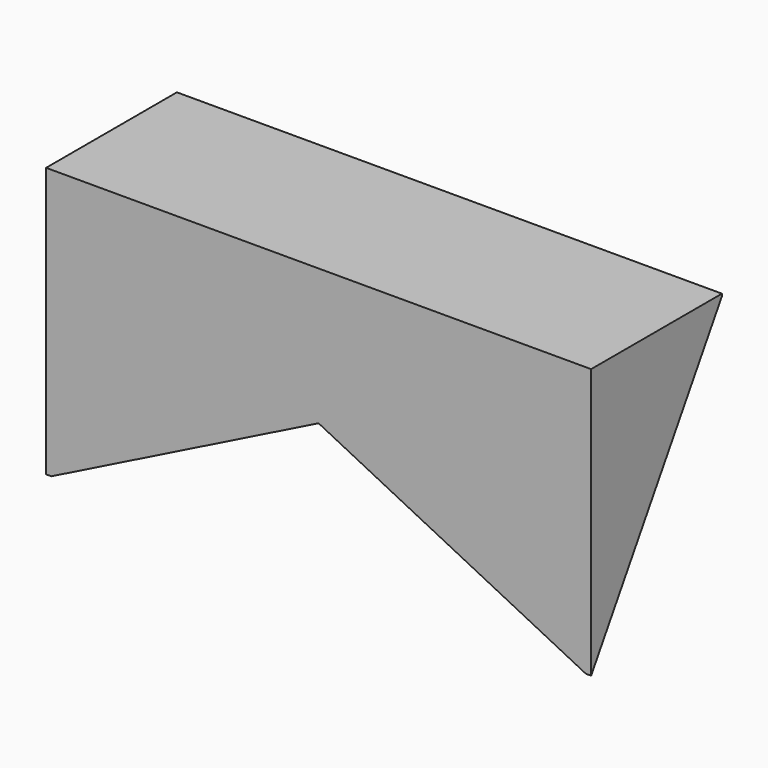
from build123d import *

# Parameters (mm, degrees)
F1_DEPTH      = 38.1
F3_DEPTH      = 98.552
F3_DEPTH_BACK = 78.232


with BuildPart() as f1:
    # F0 (on Front) → F1 (new body)
    with BuildSketch(Plane.XZ):
        Polygon((-1.4573782682, 27.211310178), (-64.9573782682, 27.211310178), (-64.9573782682, -36.288689822), (-1.4573782682, -4.538689822), align=None)
        Polygon((62.0426217318, 27.211310178), (-1.4573782682, 27.211310178), (-1.4573782682, -4.538689822), (62.0426217318, -36.288689822), align=None)
    extrude(amount=F1_DEPTH)

    # F2 (on Right) → F3 (cut, two sides)
    with BuildSketch(Plane.YZ) as f3_sk:
        Polygon((0, 26.6700014472), (-38.474753499, -36.288689822), (0, -36.288689822), align=None)
    extrude(amount=-F3_DEPTH, mode=Mode.SUBTRACT)
    extrude(f3_sk.sketch, amount=F3_DEPTH_BACK, mode=Mode.SUBTRACT)


solid = f1.part
